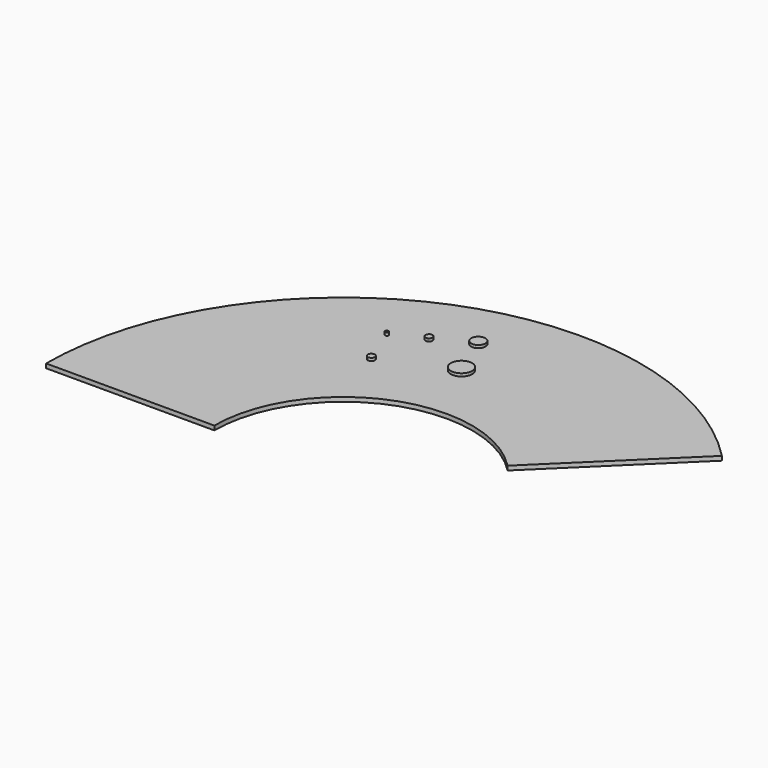
from build123d import *

# Parameters (mm, degrees)
F1_DEPTH = 1.5
F2_R     = 0.625
F2_R_2   = 1.25
F2_R_3   = 3.75
F3_DEPTH = 1


with BuildPart() as f1:
    # F0 (on Top) → F1 (new body)
    with BuildSketch(Plane.XY):
        with BuildLine():
            Line((32.444928, 31.685156), (74.762845, 73.012102))
            ThreePointArc((74.762845, 73.012102), (-39.417843, 96.780595), (-104.5, 0))
            Line((-104.5, 0), (-45.35, 0))
            ThreePointArc((-45.35, 0), (-17.106212, 42), (32.444928, 31.685156))
        make_face()
    extrude(amount=F1_DEPTH)

    # F2 (on face) → F3 (join)
    with BuildSketch(Plane.XY.offset(1.5)):
        with BuildLine():
            ThreePointArc((-30.96232, 75.58918), (-30.884194, 75.612404), (-30.807747, 75.640671))
            Line((-30.807747, 75.640671), (-30.811752, 75.650505))
            Line((-30.811752, 75.650505), (-30.96232, 75.58918))
        make_face()
        with BuildLine():
            Line((-30.811752, 75.650505), (-30.807747, 75.640671))
            ThreePointArc((-30.807747, 75.640671), (-30.733305, 75.67386), (-30.661184, 75.71183))
            Line((-30.661184, 75.71183), (-30.811752, 75.650505))
        make_face()
        with BuildLine():
            Line((-30.96232, 75.58918), (-30.811752, 75.650505))
            Line((-30.811752, 75.650505), (-31.750758, 77.955996))
            ThreePointArc((-31.750758, 77.955996), (-32.465182, 76.403275), (-30.96232, 75.58918))
        make_face()
        with BuildLine():
            Line((-31.750758, 77.955996), (-30.811752, 75.650505))
            Line((-30.811752, 75.650505), (-30.661184, 75.71183))
            ThreePointArc((-30.661184, 75.71183), (-30.198724, 76.169878), (-30.029252, 76.798334))
            ThreePointArc((-30.029252, 76.798334), (-30.581715, 77.835609), (-31.750758, 77.955996))
        make_face()
        with BuildLine():
            ThreePointArc((-21.366645, 82.285112), (-21.337038, 82.208873), (-21.304953, 82.133643))
            Line((-21.304953, 82.133643), (-21.366645, 82.285112))
        make_face()
        with BuildLine():
            Line((-21.366645, 82.285112), (-21.304953, 82.133643))
            ThreePointArc((-21.304953, 82.133643), (-19.954269, 80.832328), (-18.078702, 80.836558))
            ThreePointArc((-18.078702, 80.836558), (-16.947162, 81.756808), (-16.521713, 83.151883))
            ThreePointArc((-16.521713, 83.151883), (-19.46198, 85.612811), (-21.366645, 82.285112))
        make_face()
        with Locations((-42.055275, 71.745973)):
            Circle(F2_R)
        with Locations((-36.397212, 57.854021)):
            Circle(F2_R_2)
        with Locations((-12.892144, 68.102269)):
            Circle(F2_R_3)
    extrude(amount=F3_DEPTH)


solid = f1.part
